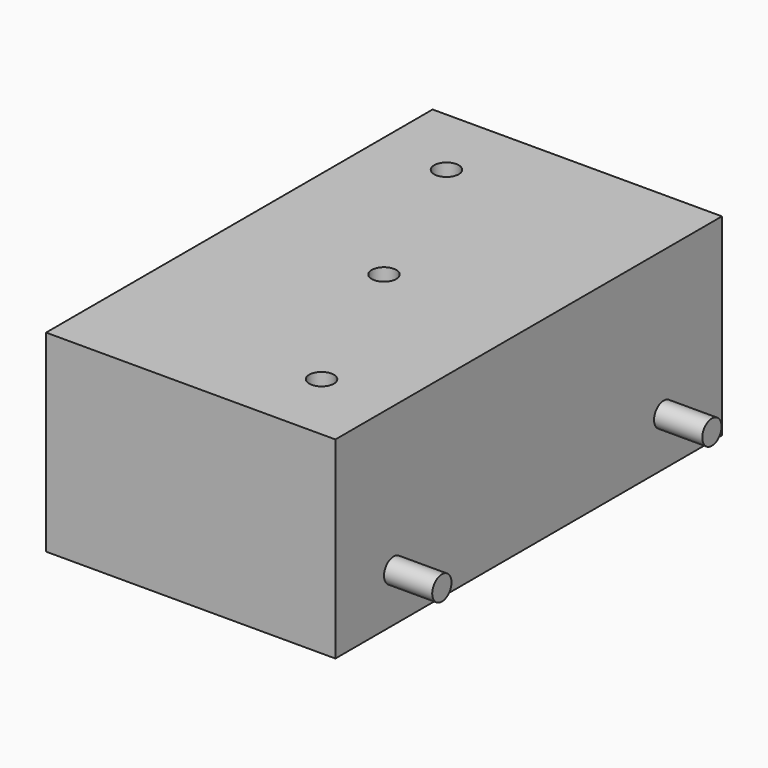
from build123d import *

# Parameters (mm, degrees)
F0_W      = 152.4
F0_H      = 101.6
F0_W_2    = 135.128
F0_H_2    = 84.328
F1_DEPTH  = 127
F2_R      = 6.35
F3_DEPTH  = 152.401
F4_R      = 6.35
F5_DEPTH  = 101.6
F6_W      = 135.128
F6_H      = 254
F7_DEPTH  = 25.4
F8_R      = 6.477
F9_DEPTH  = 25.4
F10_W     = 152.4
F10_H     = 101.6
F11_DEPTH = 0.254
F12_W     = 152.4
F12_H     = 101.6
F13_DEPTH = 0.254


with BuildPart() as f1:
    # F0 (on Front) → F1 (new body, symmetric)
    with BuildSketch(Plane.XZ):
        Rectangle(F0_W, F0_H)
        Rectangle(F0_W_2, F0_H_2, mode=Mode.SUBTRACT)
    extrude(amount=F1_DEPTH, both=True)

    # F2 (on face) → F3 (cut, through all)
    with BuildSketch(Plane.YZ.offset(76.2)):
        with Locations((-88.9, -25.4)):
            Circle(F2_R)
        with Locations((88.9, -25.4)):
            Circle(F2_R)
    extrude(amount=-F3_DEPTH, mode=Mode.SUBTRACT)

    # F6 (on face) → F7 (cut)
    with BuildSketch(Plane.XY.offset(-42.164)):
        Rectangle(F6_W, F6_H)
    extrude(amount=-F7_DEPTH, mode=Mode.SUBTRACT)

    # F8 (on face) → F9 (cut)
    with BuildSketch(Plane.XY.offset(50.8)):
        with Locations((-38.227, 88.9)):
            Circle(F8_R)
        with Locations((38.227, -88.9)):
            Circle(F8_R)
        Circle(F8_R)
    extrude(amount=-F9_DEPTH, mode=Mode.SUBTRACT)

    # F10 (on face) → F11 (join)
    with BuildSketch(Plane(origin=(0, 127, 0), x_dir=(-1, 0, 0), z_dir=(0, 1, 0))):
        Rectangle(F10_W, F10_H)
    extrude(amount=F11_DEPTH)

    # F12 (on face) → F13 (join)
    with BuildSketch(Plane.XZ.offset(127)):
        Rectangle(F12_W, F12_H)
    extrude(amount=F13_DEPTH)


with BuildPart() as f5:
    # F4 (on Right) → F5 (new body, symmetric)
    with BuildSketch(Plane.YZ):
        with Locations((-88.9, -25.4)):
            Circle(F4_R)
    extrude(amount=F5_DEPTH, both=True)


with BuildPart() as f5b:
    # F4 (on Right) → F5, piece 2 (new body, symmetric)
    with BuildSketch(Plane.YZ):
        with Locations((88.9, -25.4)):
            Circle(F4_R)
    extrude(amount=F5_DEPTH, both=True)


solid = Compound([f1.part, f5.part, f5b.part])
